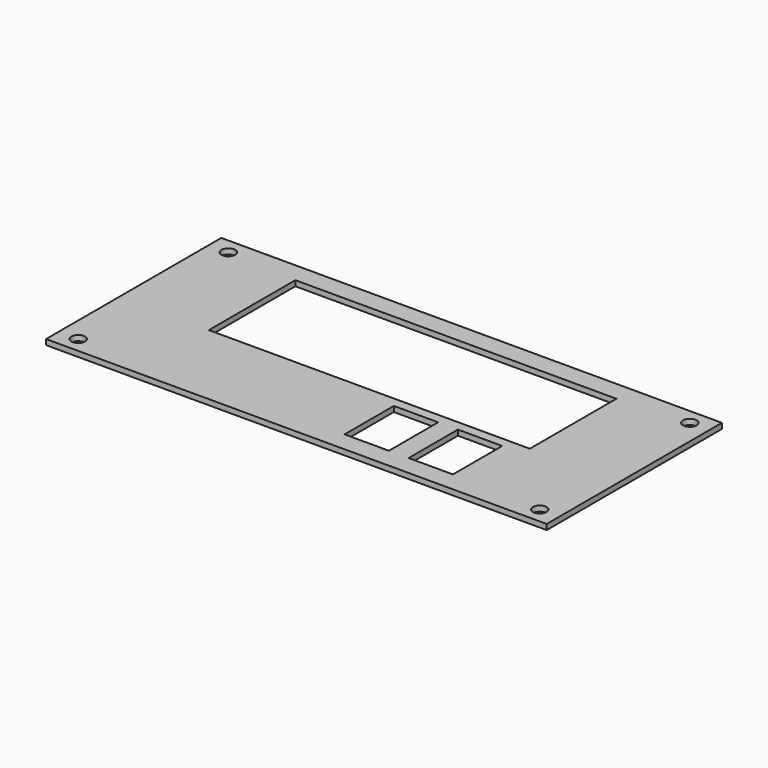
from build123d import *

# Parameters (mm, degrees)
SKETCH_W   = 203.2
SKETCH_H   = 88.9
SKETCH_R   = 2.775
SKETCH_W_2 = 130.302
SKETCH_H_2 = 43.9
SKETCH_W_3 = 18
SKETCH_H_3 = 25
PAD_DEPTH  = 2.2


with BuildPart() as part:
    # Sketch → Pad (new body)
    with BuildSketch(Plane.XY):
        Rectangle(SKETCH_W, SKETCH_H)
        with Locations((-93.6625, 38.1)):
            Circle(SKETCH_R, mode=Mode.SUBTRACT)
        with Locations((-93.6625, -38.1)):
            Circle(SKETCH_R, mode=Mode.SUBTRACT)
        with Locations((93.6625, 38.1)):
            Circle(SKETCH_R, mode=Mode.SUBTRACT)
        with Locations((93.6625, -38.1)):
            Circle(SKETCH_R, mode=Mode.SUBTRACT)
        with Locations((0, 14.5)):
            Rectangle(SKETCH_W_2, SKETCH_H_2, mode=Mode.SUBTRACT)
        with Locations((48.151, -23.95)):
            Rectangle(SKETCH_W_3, SKETCH_H_3, mode=Mode.SUBTRACT)
        with Locations((22.151, -23.95)):
            Rectangle(SKETCH_W_3, SKETCH_H_3, mode=Mode.SUBTRACT)
    extrude(amount=PAD_DEPTH)


solid = part.part
